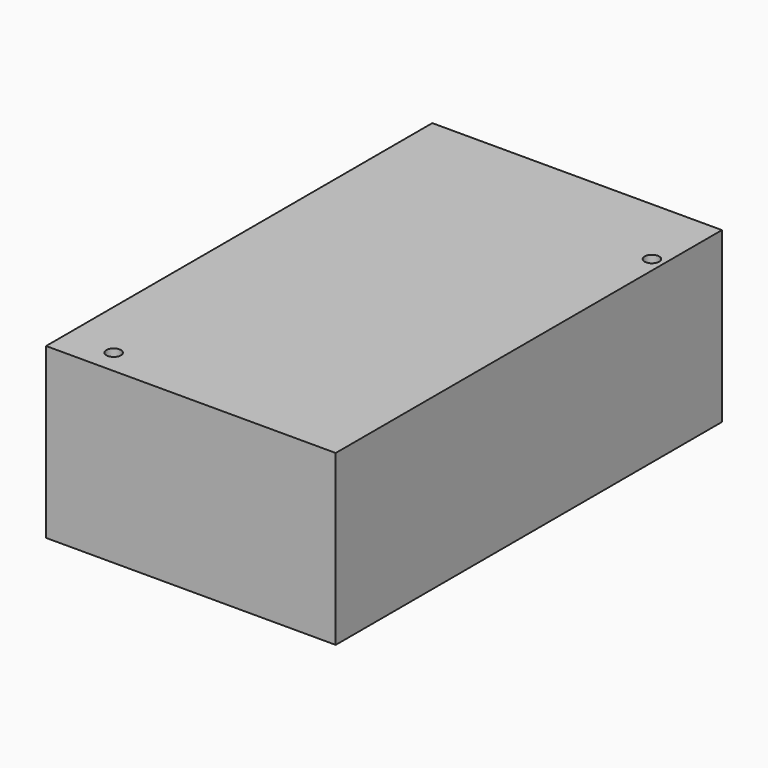
from build123d import *

# Parameters (mm, degrees)
SKETCH_W  = 60
SKETCH_H  = 100
SKETCH_R  = 1.5
PAD_DEPTH = 35


with BuildPart() as part:
    # Sketch → Pad (new body)
    with BuildSketch(Plane.XY):
        with Locations((30, 50)):
            Rectangle(SKETCH_W, SKETCH_H)
        with Locations((10, 5)):
            Circle(SKETCH_R, mode=Mode.SUBTRACT)
        with Locations((57.5, 85)):
            Circle(SKETCH_R, mode=Mode.SUBTRACT)
    extrude(amount=PAD_DEPTH)


solid = part.part
